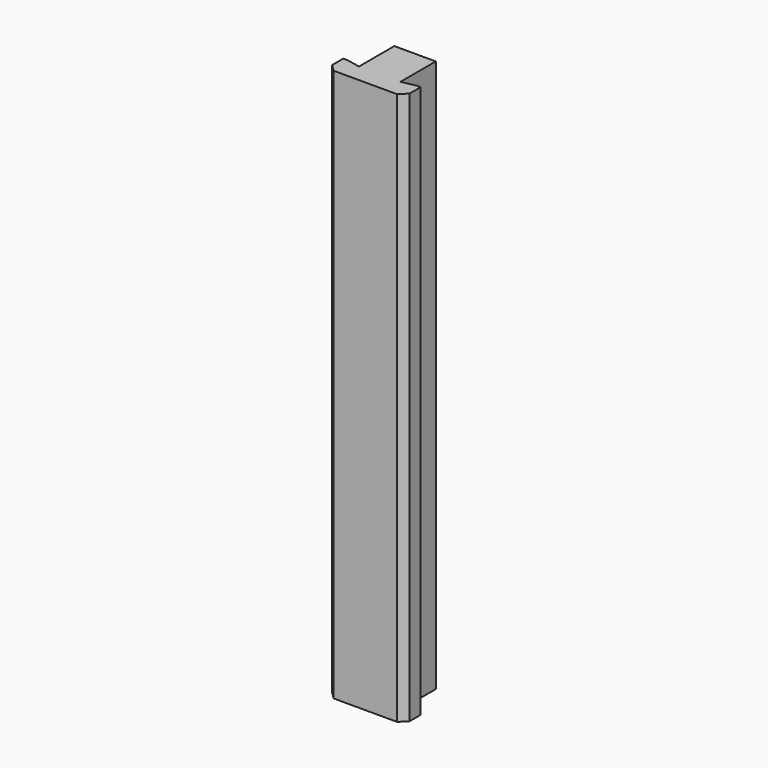
from build123d import *

# Parameters (mm, degrees)
PAD_DEPTH = 80


with BuildPart() as part:
    # Sketch → Pad (new body)
    with BuildSketch(Plane.XY):
        Polygon((0, 3), (0, 1), (1, 0), (10.2, 0), (11.2, 1), (11.2, 3), (10.6, 3), (8.6, 2.6), (8.6, 9), (2.6, 9), (2.6, 2.6), (0.6, 3), align=None)
    extrude(amount=PAD_DEPTH)


solid = part.part
